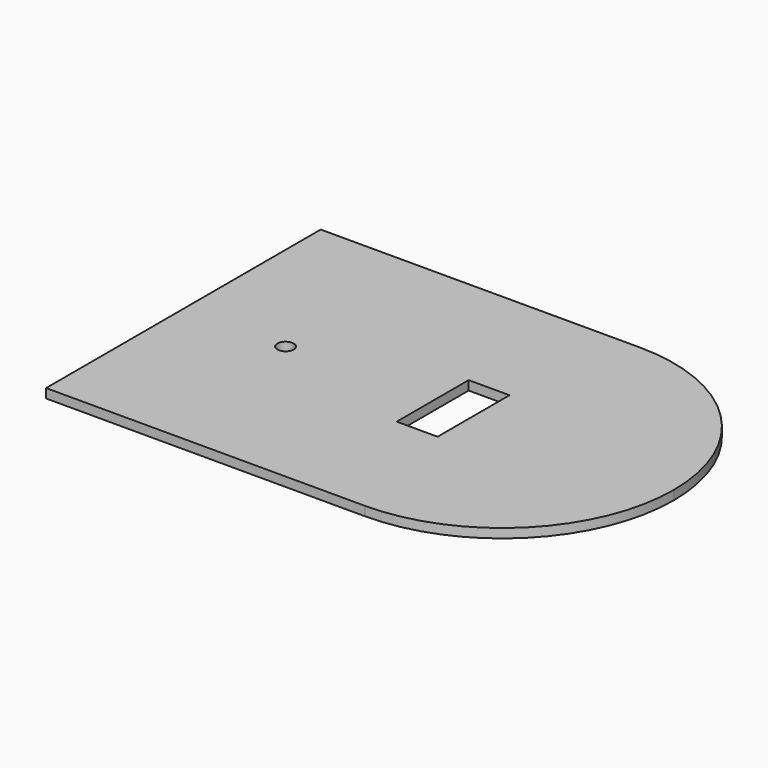
from build123d import *

# Parameters (mm, degrees)
F1_DEPTH = 28.575


with BuildPart() as f1:
    # F0 (on Top) → F1 (new body)
    with BuildSketch(Plane.XY):
        with BuildLine():
            Line((-1371.6, 533.4), (-1447.8, 533.4))
            Line((-1447.8, 533.4), (-1447.8, 0))
            Line((-1447.8, 0), (-1447.8, -533.4))
            Line((-1447.8, -533.4), (-1371.6, -533.4))
            Line((-1371.6, -533.4), (-685.8, -533.4))
            Line((-685.8, -533.4), (-457.2, -533.4))
            ThreePointArc((-457.2, -533.4), (-80.029243, -377.170757), (76.2, 0))
            Line((76.2, 0), (-457.2, 0))
            Line((-457.2, 0), (-457.2, 533.4))
            Line((-457.2, 533.4), (-1371.6, 533.4))
        make_face()
        with BuildLine():
            ThreePointArc((-1104.9, 0), (-1130.3, -25.4), (-1155.7, 0))
            ThreePointArc((-1155.7, 0), (-1130.3, 25.4), (-1104.9, 0))
        make_face(mode=Mode.SUBTRACT)
        Polygon((-546.1, 139.7), (-546.1, 0), (-546.1, -139.7), (-673.1, -139.7), (-673.1, 139.7), align=None, mode=Mode.SUBTRACT)
        with BuildLine():
            ThreePointArc((76.2, 0), (-80.029243, 377.170757), (-457.2, 533.4))
            Line((-457.2, 533.4), (-457.2, 0))
            Line((-457.2, 0), (76.2, 0))
        make_face()
    extrude(amount=F1_DEPTH)


solid = f1.part
